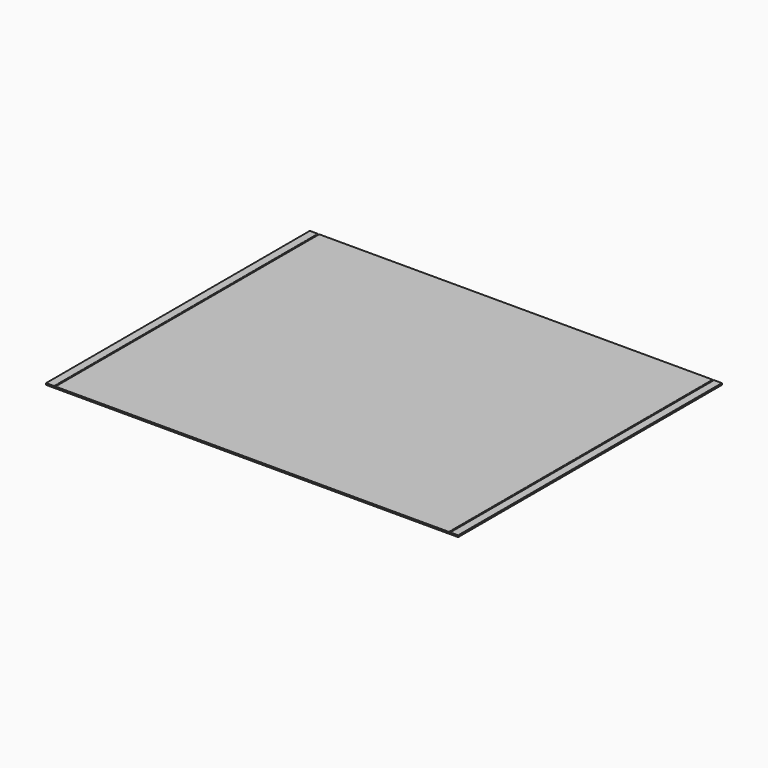
from build123d import *

# Parameters (mm, degrees)
F0_W     = 1270
F0_H     = 1016
F1_DEPTH = 5.08
F2_W     = 2.54
F2_H     = 1016
F3_DEPTH = 2.54
F4_R     = 1.27
F5_R     = 0.508
F6_R     = 1.27
F7_R     = 0.508


with BuildPart() as f1:
    # F0 (on Top) → F1 (new body)
    with BuildSketch(Plane.XY):
        with Locations((517.544276, 407.724813)):
            Rectangle(F0_W, F0_H)
    extrude(amount=F1_DEPTH)

    # F2 (on face) → F3 (cut)
    with BuildSketch(Plane.XY.offset(5.08)):
        with Locations((1125.874276, 407.724813)):
            Rectangle(F2_W, F2_H)
        with Locations((-90.785724, 407.724813)):
            Rectangle(F2_W, F2_H)
    extrude(amount=-F3_DEPTH, mode=Mode.SUBTRACT)

    # F4
    f4_edges = [f1.edges().sort_by_distance(p)[0] for p in [
        (1127.144276, 407.724813, 5.08),
        (1124.604276, 407.724813, 5.08),
    ]]
    fillet(f4_edges, radius=F4_R)

    # F5
    f5_edges = [f1.edges().sort_by_distance(p)[0] for p in [
        (1127.144276, 407.724813, 2.54),
        (1124.604276, 407.724813, 2.54),
    ]]
    fillet(f5_edges, radius=F5_R)

    # F6
    f6_edges = [f1.edges().sort_by_distance(p)[0] for p in [
        (-89.515724, 407.724813, 5.08),
        (-92.055724, 407.724813, 5.08),
    ]]
    fillet(f6_edges, radius=F6_R)

    # F7
    f7_edges = [f1.edges().sort_by_distance(p)[0] for p in [
        (-92.055724, 407.724813, 2.54),
        (-89.515724, 407.724813, 2.54),
    ]]
    fillet(f7_edges, radius=F7_R)


solid = f1.part
